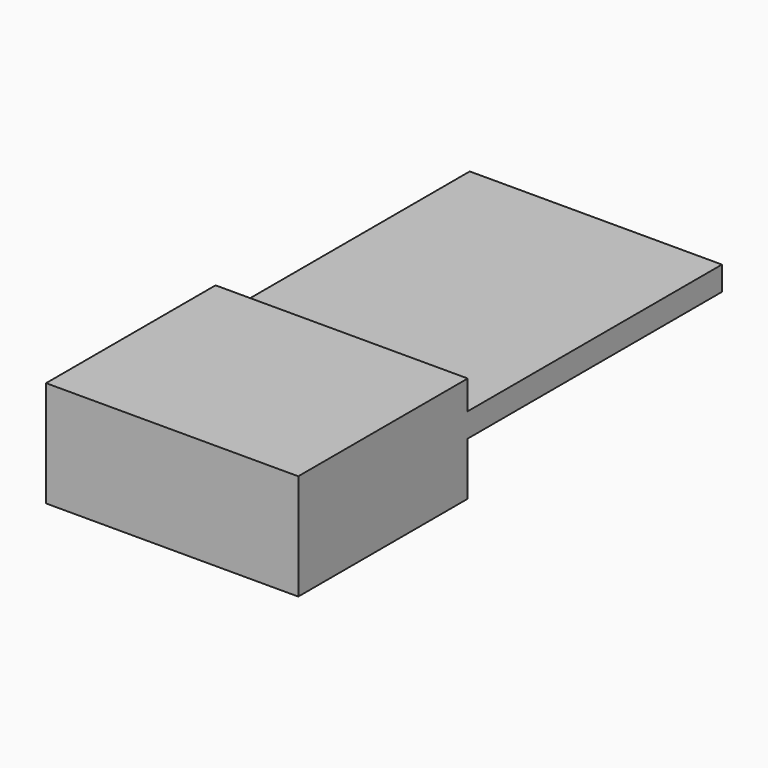
from build123d import *

# Parameters (mm, degrees)
F0_W     = 26.19
F0_H     = 33
F1_DEPTH = 2.5
F0_H_2   = 22
F2_DEPTH = 5.5
F3_DEPTH = 5.5


with BuildPart() as f1:
    # F0 (on Top) → F1 (new body)
    with BuildSketch(Plane.XY):
        with Locations((0, 11)):
            Rectangle(F0_W, F0_H)
    extrude(amount=F1_DEPTH)

    # F0 (on Top) → F2 (join)
    with BuildSketch(Plane.XY):
        with Locations((0, -16.5)):
            Rectangle(F0_W, F0_H_2)
    extrude(amount=F2_DEPTH)

    # F0 (on Top) → F3 (join)
    with BuildSketch(Plane.XY):
        with Locations((0, -16.5)):
            Rectangle(F0_W, F0_H_2)
    extrude(amount=-F3_DEPTH)


solid = f1.part
